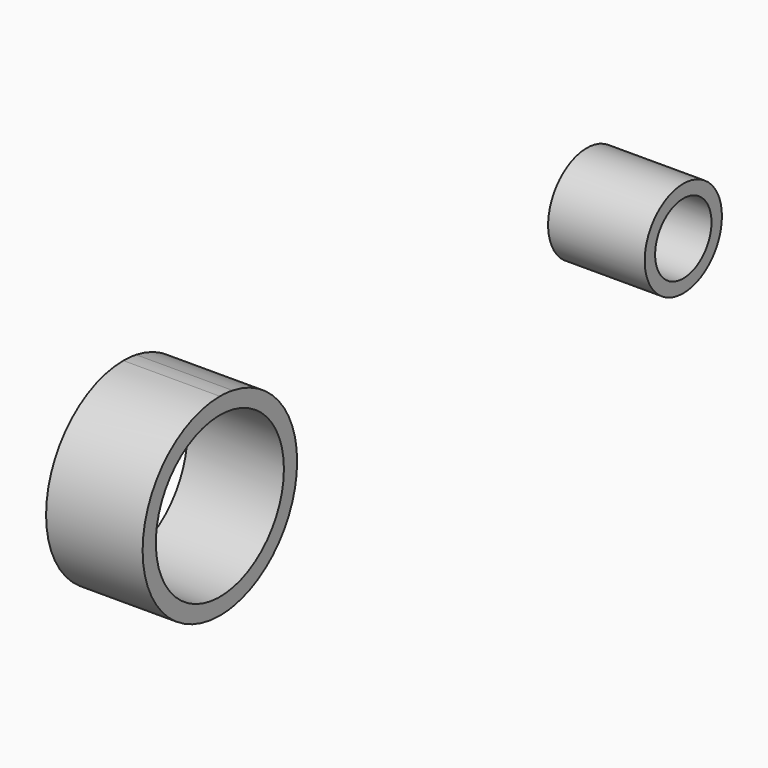
from build123d import *

# Parameters (mm, degrees)
F0_R     = 21.059262
F0_R_2   = 12.7
F0_R_3   = 9.268113
F1_DEPTH = 25.4


with BuildPart() as f1:
    # F0 (on Right) → F1 (new body)
    with BuildSketch(Plane.YZ):
        with BuildLine():
            Line((4.189864, 25.052047), (0, 25.4))
            ThreePointArc((0, 25.4), (-25.4, 0), (0, -25.4))
            Line((0, -25.4), (4.189864, -25.052047))
            ThreePointArc((4.189864, -25.052047), (19.385337, -16.412456), (25.4, 0))
            ThreePointArc((25.4, 0), (19.385337, 16.412456), (4.189864, 25.052047))
        make_face()
        Circle(F0_R, mode=Mode.SUBTRACT)
        with BuildLine():
            ThreePointArc((4.189864, 25.052047), (2.102144, 25.312862), (0, 25.4))
            Line((0, 25.4), (4.189864, 25.052047))
        make_face()
        with BuildLine():
            Line((4.189864, -25.052047), (0, -25.4))
            ThreePointArc((0, -25.4), (2.102144, -25.312862), (4.189864, -25.052047))
        make_face()
        with Locations((152.4, 0)):
            Circle(F0_R_2)
        with Locations((152.4, 0)):
            Circle(F0_R_3, mode=Mode.SUBTRACT)
    extrude(amount=F1_DEPTH)


solid = f1.part
